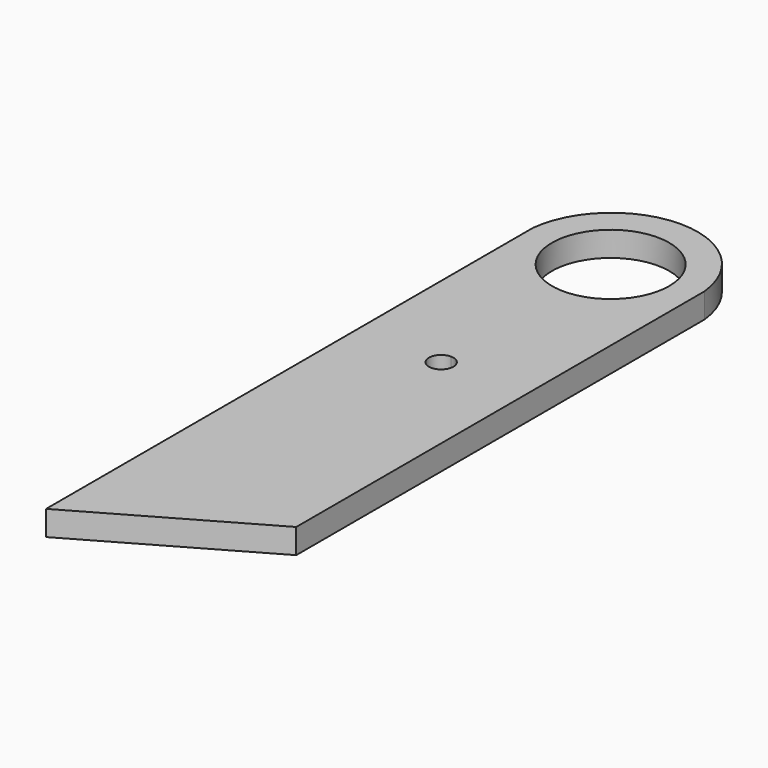
from build123d import *

# Parameters (mm, degrees)
F4_R     = 30.353
F6_DEPTH = 12.8524
F8_DEPTH = 25.4


with BuildPart() as f6:
    # F4 (on face) → F6 (new body)
    with BuildSketch(Plane.XY):
        with BuildLine():
            Line((-21.337585, -116.979506), (-21.337585, 147.294909))
            ThreePointArc((-21.337585, 147.294909), (-65.787585, 187.33966), (-110.237585, 147.294909))
            Line((-110.237585, 147.294909), (-110.237585, -167.779506))
            Line((-110.237585, -167.779506), (-21.337585, -116.979506))
        make_face()
        with Locations((-65.724085, 141.998894)):
            Circle(F4_R, mode=Mode.SUBTRACT)
    extrude(amount=F6_DEPTH)

    # F7 (on face) → F8 (cut)
    with BuildSketch(Plane.XY.offset(12.8524)):
        with BuildLine():
            ThreePointArc((-59.374085, 32.321694), (-61.233957, 36.811823), (-65.724085, 38.671694))
            ThreePointArc((-65.724085, 38.671694), (-70.214213, 27.831566), (-59.374085, 32.321694))
        make_face()
    extrude(amount=-F8_DEPTH, mode=Mode.SUBTRACT)


solid = f6.part
